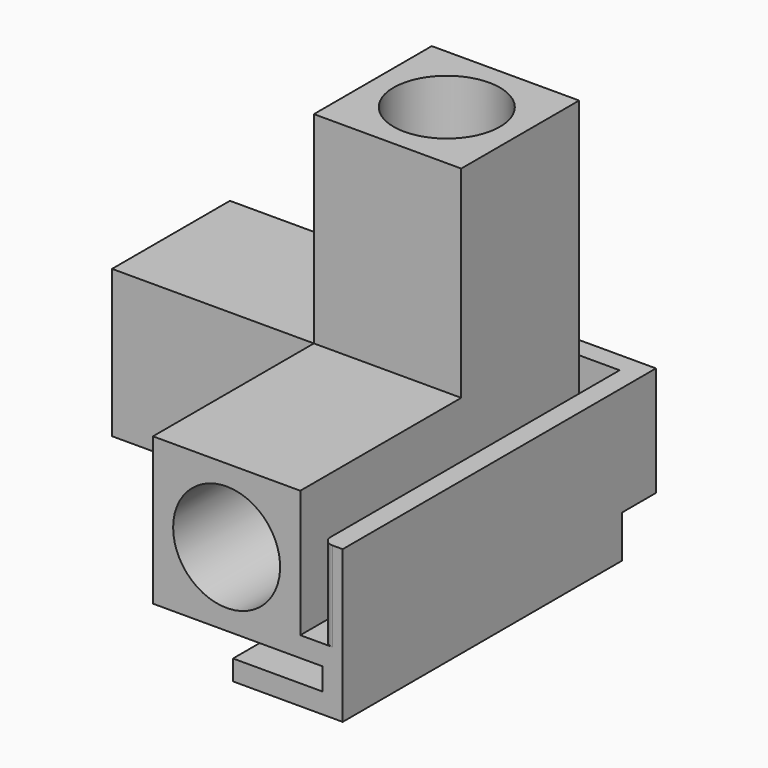
from build123d import *

# Parameters (mm, degrees)
F0_W      = 27
F0_H      = 15.9
F0_W_2    = 15.9
F0_H_2    = 27
F0_W_3    = 3
F0_H_3    = 3
F1_DEPTH  = 21.9
F2_DEPTH  = 51.8
F3_R      = 7.95
F6_DEPTH  = 30
F7_DEPTH  = 30
F4_R      = 7.9
F8_DEPTH  = 30
F10_DEPTH = 58.2
F11_W     = 3
F11_H     = 13.3
F13_R     = 1.5
F17_DEPTH = 51.9


with BuildPart() as f1:
    # F0 (on Front) → F1 (new body)
    with BuildSketch(Plane.XZ):
        with BuildLine():
            Line((-34.3576915575, 15.9), (-42.3076915575, 15.9))
            Line((-42.3076915575, 15.9), (-42.3076915575, 7.9499999931))
            ThreePointArc((-42.3076915575, 7.9499999931), (-39.9791904704, 13.571498908), (-34.3576915575, 15.9))
        make_face()
        with BuildLine():
            ThreePointArc((-34.3576915575, 15.9), (-39.9791904704, 13.571498908), (-42.3076915575, 7.9499999931))
            ThreePointArc((-42.3076915575, 7.9499999931), (-39.9791904655, 2.3285010871), (-34.3576915575, 0))
            ThreePointArc((-34.3576915575, 0), (-28.7361926471, 2.3285010896), (-26.4076915575, 7.95))
            ThreePointArc((-26.4076915575, 7.95), (-28.7361926471, 13.5714989104), (-34.3576915575, 15.9))
        make_face()
        Polygon((-42.3076915575, 18.9), (-42.3076915575, 45.9), (-26.4076915575, 45.9), (-26.4076915575, 18.9), (-23.4076915575, 18.9), (-23.4076915575, 48.9), (-45.3076915575, 48.9), (-45.3076915575, 18.9), align=None)
        with Locations((-9.9076915575, 7.95)):
            Rectangle(F0_W, F0_H)
        with Locations((-34.3576915575, 32.4)):
            Rectangle(F0_W_2, F0_H_2)
        with BuildLine():
            ThreePointArc((-34.3576915575, 0), (-39.9791904655, 2.3285010871), (-42.3076915575, 7.9499999931))
            Line((-42.3076915575, 7.9499999931), (-42.3076915575, 0))
            Line((-42.3076915575, 0), (-34.3576915575, 0))
        make_face()
        with BuildLine():
            Line((-26.4076915575, 0), (-26.4076915575, 7.95))
            ThreePointArc((-26.4076915575, 7.95), (-28.7361926471, 2.3285010896), (-34.3576915575, 0))
            Line((-34.3576915575, 0), (-26.4076915575, 0))
        make_face()
        with BuildLine():
            Line((-26.4076915575, 7.95), (-26.4076915575, 15.9))
            Line((-26.4076915575, 15.9), (-34.3576915575, 15.9))
            ThreePointArc((-34.3576915575, 15.9), (-28.7361926471, 13.5714989104), (-26.4076915575, 7.95))
        make_face()
        Polygon((6.5923084425, 18.9), (-23.4076915575, 18.9), (-23.4076915575, 15.9), (3.5923084425, 15.9), (3.5923084425, 0), (-23.4076915575, 0), (-23.4076915575, -3), (6.5923084425, -3), align=None)
        Polygon((-26.4076915575, 18.9), (-42.3076915575, 18.9), (-42.3076915575, 15.9), (-34.3576915575, 15.9), (-26.4076915575, 15.9), align=None)
        Polygon((-23.4076915575, 15.9), (-26.4076915575, 15.9), (-26.4076915575, 7.95), (-26.4076915575, 0), (-23.4076915575, 0), align=None)
        Polygon((-42.3076915575, 15.9), (-42.3076915575, 18.9), (-45.3076915575, 18.9), (-45.3076915575, -3), (-23.4076915575, -3), (-23.4076915575, 0), (-26.4076915575, 0), (-34.3576915575, 0), (-42.3076915575, 0), (-42.3076915575, 7.9499999931), align=None)
        with Locations((-24.9076915575, 17.4)):
            Rectangle(F0_W_3, F0_H_3)
    extrude(amount=F1_DEPTH)

    # F0 (on Front) → F2 (join)
    with BuildSketch(Plane.XZ):
        Polygon((-42.3076915575, 15.9), (-42.3076915575, 18.9), (-45.3076915575, 18.9), (-45.3076915575, -3), (-23.4076915575, -3), (-23.4076915575, 0), (-26.4076915575, 0), (-34.3576915575, 0), (-42.3076915575, 0), (-42.3076915575, 7.9499999931), align=None)
        with BuildLine():
            ThreePointArc((-34.3576915575, 15.9), (-39.9791904704, 13.571498908), (-42.3076915575, 7.9499999931))
            ThreePointArc((-42.3076915575, 7.9499999931), (-39.9791904655, 2.3285010871), (-34.3576915575, 0))
            ThreePointArc((-34.3576915575, 0), (-28.7361926471, 2.3285010896), (-26.4076915575, 7.95))
            ThreePointArc((-26.4076915575, 7.95), (-28.7361926471, 13.5714989104), (-34.3576915575, 15.9))
        make_face()
        Polygon((-26.4076915575, 18.9), (-42.3076915575, 18.9), (-42.3076915575, 15.9), (-34.3576915575, 15.9), (-26.4076915575, 15.9), align=None)
        Polygon((-23.4076915575, 15.9), (-26.4076915575, 15.9), (-26.4076915575, 7.95), (-26.4076915575, 0), (-23.4076915575, 0), align=None)
        with Locations((-24.9076915575, 17.4)):
            Rectangle(F0_W_3, F0_H_3)
        with BuildLine():
            Line((-26.4076915575, 7.95), (-26.4076915575, 15.9))
            Line((-26.4076915575, 15.9), (-34.3576915575, 15.9))
            ThreePointArc((-34.3576915575, 15.9), (-28.7361926471, 13.5714989104), (-26.4076915575, 7.95))
        make_face()
        with BuildLine():
            Line((-34.3576915575, 15.9), (-42.3076915575, 15.9))
            Line((-42.3076915575, 15.9), (-42.3076915575, 7.9499999931))
            ThreePointArc((-42.3076915575, 7.9499999931), (-39.9791904704, 13.571498908), (-34.3576915575, 15.9))
        make_face()
        with BuildLine():
            ThreePointArc((-34.3576915575, 0), (-39.9791904655, 2.3285010871), (-42.3076915575, 7.9499999931))
            Line((-42.3076915575, 7.9499999931), (-42.3076915575, 0))
            Line((-42.3076915575, 0), (-34.3576915575, 0))
        make_face()
        with BuildLine():
            Line((-26.4076915575, 0), (-26.4076915575, 7.95))
            ThreePointArc((-26.4076915575, 7.95), (-28.7361926471, 2.3285010896), (-34.3576915575, 0))
            Line((-34.3576915575, 0), (-26.4076915575, 0))
        make_face()
    extrude(amount=F2_DEPTH)

    # F3 (on face) → F6 (cut)
    with BuildSketch(Plane.XZ.offset(51.8)):
        with Locations((-34.3576915575, 7.95)):
            Circle(F3_R)
    extrude(amount=-F6_DEPTH, mode=Mode.SUBTRACT)

    # F5 (on face) → F7 (cut)
    with BuildSketch(Plane.YZ.offset(6.5923084425)):
        with BuildLine():
            ThreePointArc((-3, 7.95), (-5.3285010896, 13.5714989104), (-10.95, 15.9))
            ThreePointArc((-10.95, 15.9), (-16.5714989104, 13.5714989104), (-18.9, 7.95))
            ThreePointArc((-18.9, 7.95), (-16.5714989104, 2.3285010896), (-10.95, 0))
            ThreePointArc((-10.95, 0), (-5.3285010896, 2.3285010896), (-3, 7.95))
        make_face()
    extrude(amount=-F7_DEPTH, mode=Mode.SUBTRACT)

    # F4 (on face) → F8 (cut)
    with BuildSketch(Plane.XY.offset(48.9)):
        with Locations((-34.3576915575, -10.9)):
            Circle(F4_R)
    extrude(amount=-F8_DEPTH, mode=Mode.SUBTRACT)

    # F9 (on face) → F10 (join)
    with BuildSketch(Plane.XZ.offset(51.8)):
        Polygon((-51.6076915575, -3), (-45.3076915575, -3), (-45.3076915575, 0), (-48.6076915575, 0), (-48.6076915575, 13.3), (-51.6076915575, 13.3), align=None)
    extrude(amount=-F10_DEPTH)

    # F11 (on face) → F12 (join, up to the next surface of F1)
    with BuildSketch(Plane.YZ.offset(6.5923084425)):
        Polygon((6.4, -3), (6.4, 0), (3.4, 0), (0, 0), (0, -3), align=None)
        with Locations((4.9, 6.65)):
            Rectangle(F11_W, F11_H)
    extrude(until=Until.NEXT, dir=(-1, 0, 0))

    # F13
    f13_edges = [f1.edges().sort_by_distance(p)[0] for p in [
        (6.592308, 3.4, 6.65),
        (-48.607692, -51.8, 6.65),
    ]]
    fillet(f13_edges, radius=F13_R)


with BuildPart() as f14_1:
    # F14: instance of F1
    add(f1.part.mirror(Plane(origin=(6.5923084425, -9.0672909783, 7.3023649608), x_dir=(0, 1, 0), z_dir=(1, 0, 0))))

    # F16 (on face) → F17 (join)
    with BuildSketch(Plane.XZ.offset(51.8)):
        Polygon((64.7923084425, -9.3), (64.7923084425, -3), (61.7923084425, -3), (61.7923084425, -6.3), (48.4923084425, -6.3), (48.4923084425, -9.3), align=None)
    extrude(amount=-F17_DEPTH)


solid = f14_1.part
